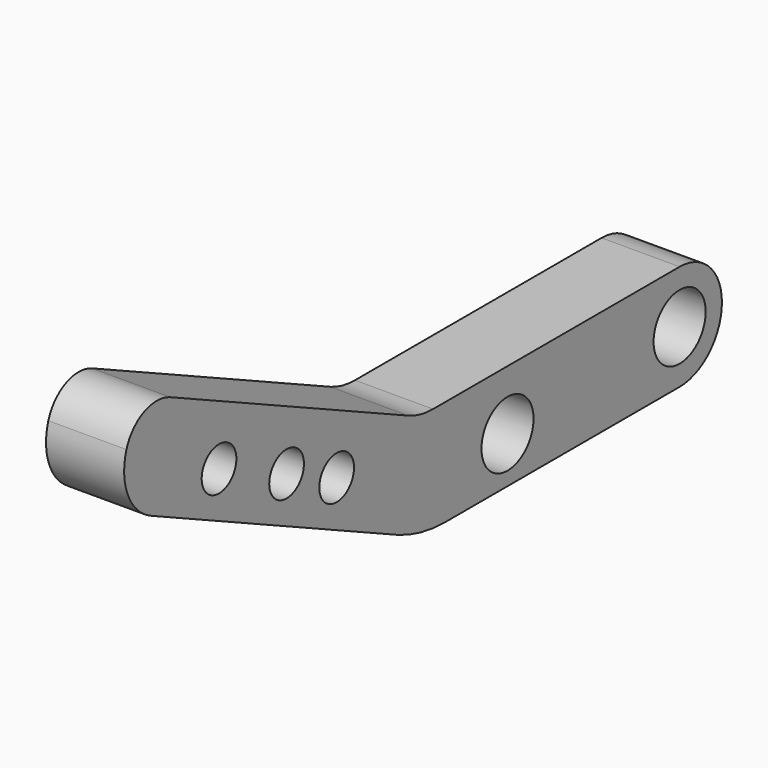
from build123d import *

# Parameters (mm, degrees)
F1_DEPTH = 18
F2_R     = 9.2
F4_D     = 10
F5_R     = 33.5
F6_R     = 17
F7_D     = 15


with BuildPart() as f1:
    # F0 (on Right) → F1 (new body)
    with BuildSketch(Plane.YZ):
        with BuildLine():
            Line((74.743822, 13.714945), (0, 13.714945))
            Line((0, 13.714945), (-77.461272, 49.427156))
            ThreePointArc((-77.461272, 49.427156), (-85.257986, 37.247191), (-77.461272, 25.067225))
            Line((-77.461272, 25.067225), (0, -10.644986))
            Line((0, -10.644986), (74.743822, -10.644986))
            ThreePointArc((74.743822, -10.644986), (86.923788, 1.534979), (74.743822, 13.714945))
        make_face()
    extrude(amount=-F1_DEPTH)

    # F2
    f2_edges = [f1.edges().sort_by_distance(p)[0] for p in [
        (-9, -77.461272, 49.427156),
    ]]
    fillet(f2_edges, radius=F2_R)

    # F4 (through all)
    with Locations(Plane.YZ):
        with Locations((-57.928775, 26.669696), (-38.470201, 17.741643), (-24.047961, 11.102834)):
            Hole(F4_D / 2)

    # F5
    f5_edges = [f1.edges().sort_by_distance(p)[0] for p in [
        (-9, 0, -10.644986),
    ]]
    fillet(f5_edges, radius=F5_R)

    # F6
    f6_edges = [f1.edges().sort_by_distance(p)[0] for p in [
        (-9, 0, 13.714945),
    ]]
    fillet(f6_edges, radius=F6_R)

    # F7 (through all)
    with Locations(Plane.YZ):
        with Locations((25.170794, 0), (74.743822, 1.534979)):
            Hole(F7_D / 2)


solid = f1.part
